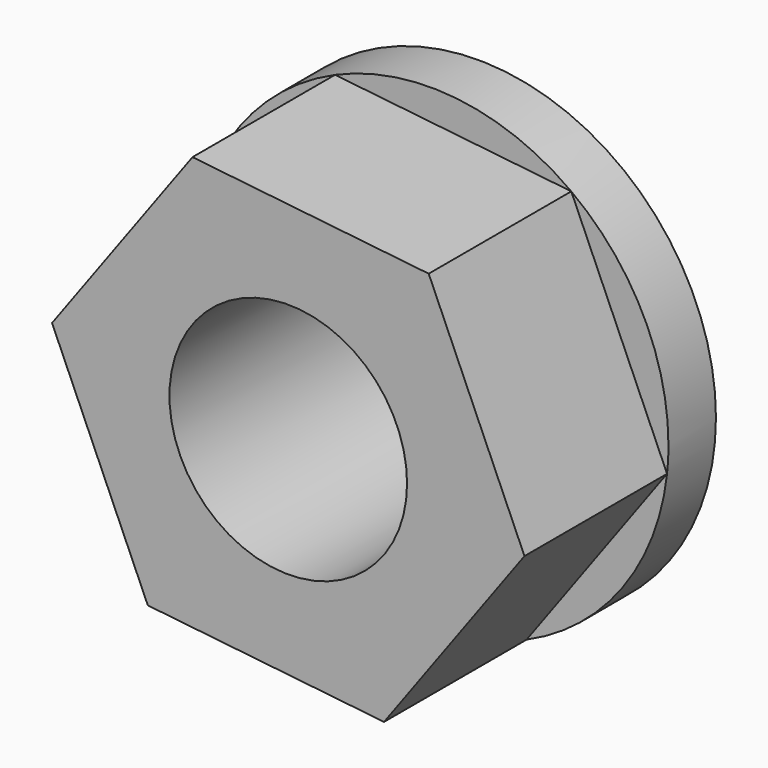
from build123d import *

# Parameters (mm, degrees)
F0_R     = 12.7
F0_R_2   = 6.35
F1_DEPTH = 3.175
F2_R     = 6.35
F3_DEPTH = 9.525


with BuildPart() as f1:
    # F0 (on Front) → F1 (new body)
    with BuildSketch(Plane.XZ):
        with Locations((-49.276002, 2.029355)):
            Circle(F0_R)
        with Locations((-49.276002, 2.029355)):
            Circle(F0_R_2, mode=Mode.SUBTRACT)
    extrude(amount=F1_DEPTH)

    # F2 (on face) → F3 (join)
    with BuildSketch(Plane.XZ.offset(3.175)):
        Polygon((-36.651033, 0.650893), (-41.769734, 12.273668), (-54.394703, 13.65213), (-61.900971, 3.407817), (-56.782269, -8.214958), (-44.1573, -9.59342), align=None)
        with Locations((-49.276002, 2.029355)):
            Circle(F2_R, mode=Mode.SUBTRACT)
    extrude(amount=F3_DEPTH)


solid = f1.part
